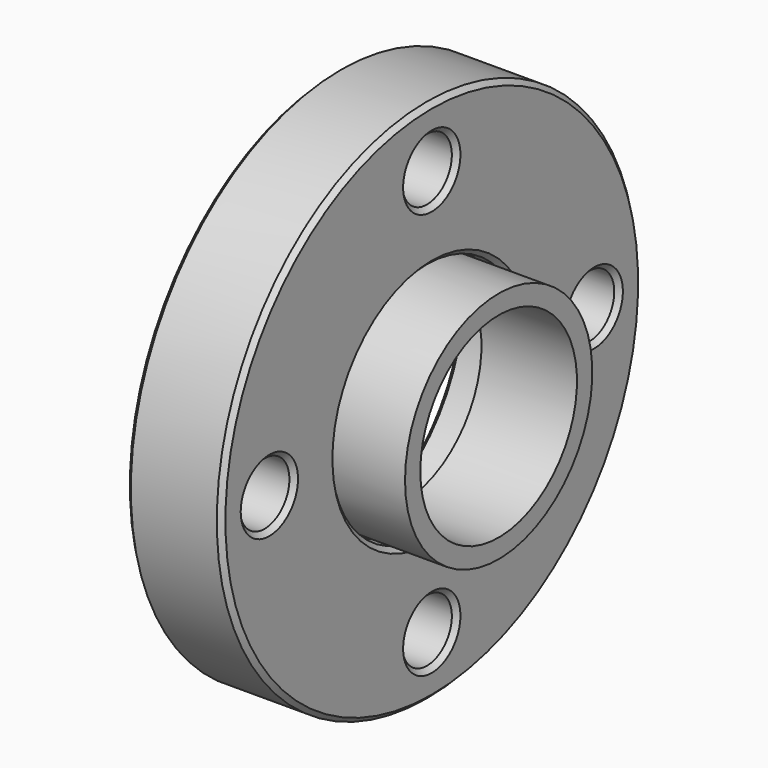
from build123d import *

# Parameters (mm, degrees)
F2_R     = 3.25
F3_DEPTH = 10.001
F4_SIZE  = 0.5
F5_R     = 12.25
F5_R_2   = 10.25
F6_DEPTH = 10


with BuildPart() as f1:
    # F0 (on Front) → F1 (revolve)
    with BuildSketch(Plane.XZ):
        Polygon((10, 27.5), (0, 27.5), (0, 16), (7, 16), (7, 12.5), (10, 12.5), align=None)
    revolve(axis=Axis((-0.282709, 0, 0), (1, 0, 0)))

    # F2 (on face) → F3 (cut, through all)
    with BuildSketch(Plane(origin=(0, 0, 0), x_dir=(0, -1, 0), z_dir=(-1, 0, 0))):
        with Locations((0, -21.25)):
            Circle(F2_R)
        with Locations((21.25, 0)):
            Circle(F2_R)
        with Locations((0, 21.25)):
            Circle(F2_R)
        with Locations((-21.25, 0)):
            Circle(F2_R)
    extrude(amount=-F3_DEPTH, mode=Mode.SUBTRACT)

    # F4
    f4_edges = [f1.edges().sort_by_distance(p)[0] for p in [
        (10, 0, -27.5),
        (10, 0, -12.5),
        (0, 0, -27.5),
        (0, 0, -16),
        (7, 0, -12.5),
        (0, -18, 0),
        (0, 3.25, -21.25),
        (0, 24.5, 0),
        (0, 3.25, 21.25),
        (10, 3.25, 21.25),
        (10, 24.5, 0),
        (10, 3.25, -21.25),
        (10, -18, 0),
    ]]
    chamfer(f4_edges, length=F4_SIZE)


with BuildPart() as f6:
    # F5 (on face) → F6 (new body)
    with BuildSketch(Plane(origin=(7, 0, 0), x_dir=(0, -1, 0), z_dir=(-1, 0, 0))):
        Circle(F5_R)
        Circle(F5_R_2, mode=Mode.SUBTRACT)
    extrude(amount=-F6_DEPTH)


solid = Compound([f1.part, f6.part])
